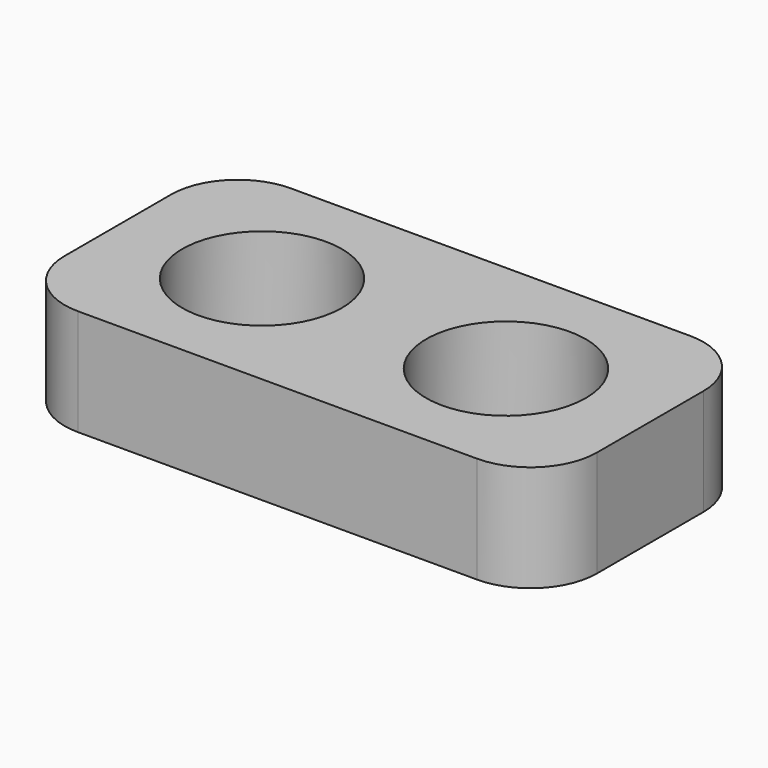
from build123d import *

# Parameters (mm, degrees)
F0_W     = 60
F0_H     = 30
F0_R     = 9
F1_DEPTH = 12
F2_R     = 7.5
F3_R     = 7.5
F4_R     = 7.5
F5_R     = 7.5


with BuildPart() as f1:
    # F0 (on Top) → F1 (new body)
    with BuildSketch(Plane.XY):
        Rectangle(F0_W, F0_H)
        with Locations((-13.75, 0)):
            Circle(F0_R, mode=Mode.SUBTRACT)
        with Locations((13.75, 0)):
            Circle(F0_R, mode=Mode.SUBTRACT)
    extrude(amount=F1_DEPTH)

    # F2
    f2_edges = [f1.edges().sort_by_distance(p)[0] for p in [
        (-30, -15, 6),
    ]]
    fillet(f2_edges, radius=F2_R)

    # F3
    f3_edges = [f1.edges().sort_by_distance(p)[0] for p in [
        (-30, 15, 6),
    ]]
    fillet(f3_edges, radius=F3_R)

    # F4
    f4_edges = [f1.edges().sort_by_distance(p)[0] for p in [
        (30, -15, 6),
    ]]
    fillet(f4_edges, radius=F4_R)

    # F5
    f5_edges = [f1.edges().sort_by_distance(p)[0] for p in [
        (30, 15, 6),
    ]]
    fillet(f5_edges, radius=F5_R)


solid = f1.part
